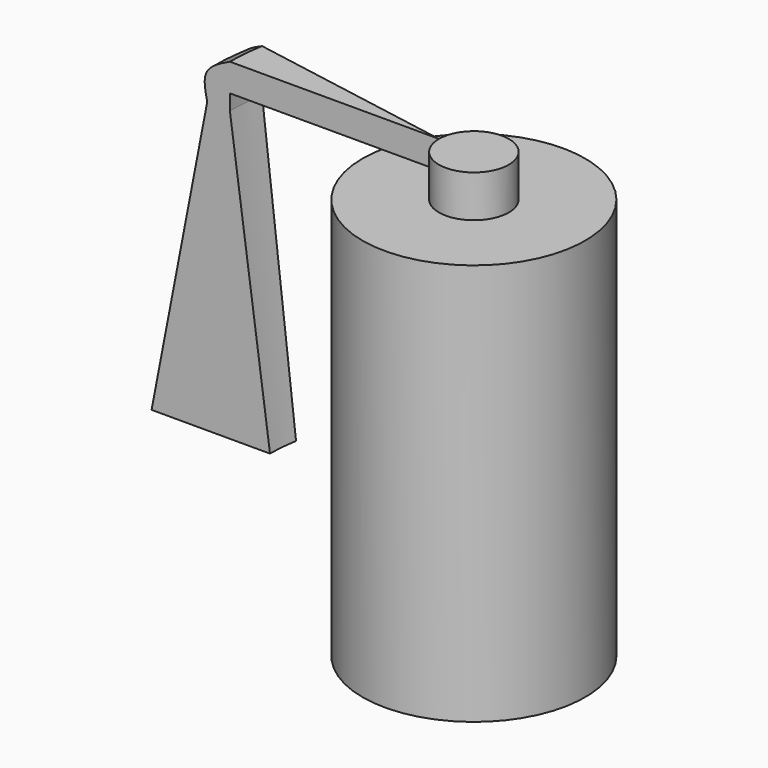
from build123d import *

# Parameters (mm, degrees)
F2_ANGLE = 10


with BuildPart() as f1:
    # F0 (on Front) → F1 (revolve)
    with BuildSketch(Plane.XZ):
        Polygon((0, -67.6582232118), (0, 58.8091909885), (-9.9551612511, 58.8091909885), (-9.9551612511, 50.8819371462), (-9.9551612511, 46.8261316419), (-31.7090339959, 46.8261316419), (-31.7090339959, -67.6582232118), align=None)
    revolve(axis=Axis((0, 0, -4.4245161116), (0, 0, 1)))


with BuildPart() as f2:
    # F0 (on Front) → F2 (revolve)
    with BuildSketch(Plane.XZ):
        with BuildLine():
            Line((-9.9551612511, 50.8819371462), (-9.9551612511, 58.8091909885))
            Line((-9.9551612511, 58.8091909885), (-69.5017799735, 58.8091909885))
            add(Edge.make_bspline(
                [(-69.5017799735, 58.8091909885), (-72.2981117098, 57.4658587207), (-77.7488059838, 54.8473948933), (-76.5419180205, 49.3290685485), (-75.9541913867, 46.6417707503)],
                knots=[0, 0, 0, 0, 0.5130230381, 1, 1, 1, 1], degree=3))
            Line((-75.9541913867, 46.6417707503), (-91.808706522, -35.7648395002))
            Line((-91.808706522, -35.7648395002), (-58.0717734993, -35.7648395002))
            Line((-58.0717734993, -35.7648395002), (-69.5017799735, 46.4574173093))
            Line((-69.5017799735, 46.4574173093), (-69.5017799735, 50.8819371462))
            Line((-69.5017799735, 50.8819371462), (-9.9551612511, 50.8819371462))
        make_face()
    revolve(axis=Axis((-9.9551612511, 0, 52.8176613152), (0, 0, -1)), revolution_arc=F2_ANGLE)


solid = Compound([f1.part, f2.part])
